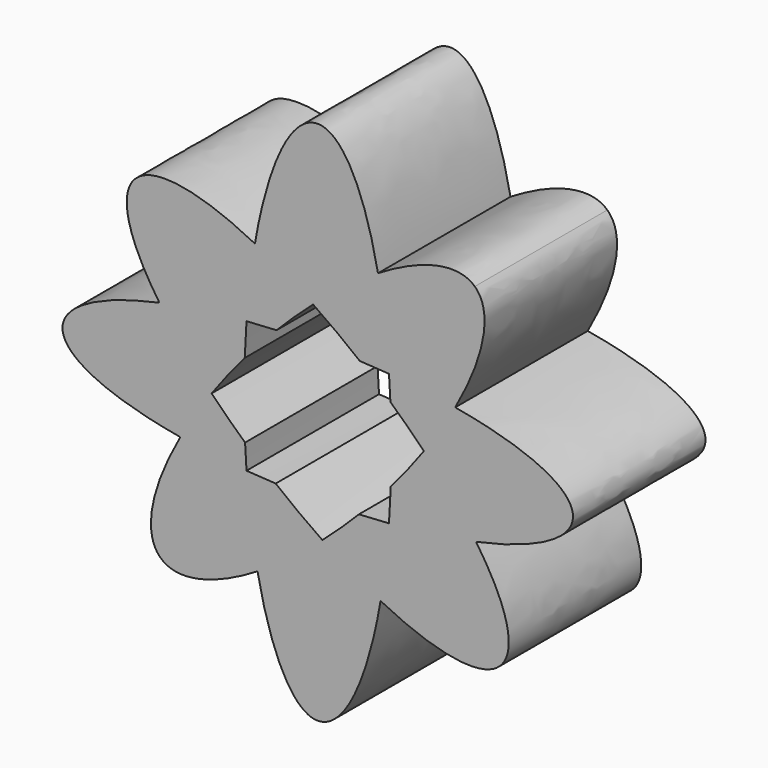
from build123d import *

# Parameters (mm, degrees)
F1_DEPTH = 25.4


with BuildPart() as f1:
    # F0 (on Front) → F1 (new body)
    with BuildSketch(Plane.XZ):
        with BuildLine():
            add(Edge.make_bspline(
                [(-9.6334397965, 20.9826078179), (-24.1749871063, 28.3822451496), (-28.2449897272, 23.4879380359)],
                knots=[5.3150586543, 5.3150586543, 5.3150586543, 6.2831853072, 6.2831853072, 6.2831853072], degree=2, weights=[1, 0.885111246, 1]))
            add(Edge.make_bspline(
                [(-28.2449897272, 23.4879380359), (-31.7999684313, 19.2129635012), (-24.2773097088, 8.2450815815)],
                knots=[0, 0, 0, 0.8610435374, 0.8610435374, 0.8610435374], degree=2, weights=[1, 0.9087481158, 1]))
            add(Edge.make_bspline(
                [(-10.9244512844, 10.093500542), (-18.2738244712, 9.5198655215), (-24.2773097088, 8.2450815815)],
                knots=[4.9952466524, 4.9952466524, 4.9952466524, 5.3814419574, 5.3814419574, 5.3814419574], degree=2, weights=[1, 0.9814145055, 1]))
            add(Edge.make_bspline(
                [(-9.6334397965, 20.9826078179), (-10.5051315613, 15.8799657732), (-10.9244512844, 10.093500542)],
                knots=[1.0230633531, 1.0230633531, 1.0230633531, 1.3175957323, 1.3175957323, 1.3175957323], degree=2, weights=[1, 0.989175918, 1]))
        make_face()
        with BuildLine():
            add(Edge.make_bspline(
                [(-10.9244512844, 10.093500542), (-18.2738244712, 9.5198655215), (-24.2773097088, 8.2450815815)],
                knots=[4.9952466524, 4.9952466524, 4.9952466524, 5.3814419574, 5.3814419574, 5.3814419574], degree=2, weights=[1, 0.9814145055, 1]))
            add(Edge.make_bspline(
                [(-24.2773097088, 8.2450815815), (-21.0599122764, 3.554182203), (-16.2778676613, -1.4007753111)],
                knots=[0.8610435374, 0.8610435374, 0.8610435374, 1.2489447615, 1.2489447615, 1.2489447615], degree=2, weights=[1, 0.9812504656, 1]))
            add(Edge.make_bspline(
                [(-11.1955196289, 5.0427610987), (-13.9309966677, 1.8467505057), (-16.2778676613, -1.4007753111)],
                knots=[1.679891763, 1.679891763, 1.679891763, 1.9166436443, 1.9166436443, 1.9166436443], degree=2, weights=[1, 0.9930017462, 1]))
            add(Edge.make_bspline(
                [(-10.9244512844, 10.093500542), (-11.1052111409, 7.5990778678), (-11.1955196289, 5.0427610987)],
                knots=[1.3175957323, 1.3175957323, 1.3175957323, 1.4453143988, 1.4453143988, 1.4453143988], degree=2, weights=[1, 0.9979616856, 1]))
        make_face()
        with BuildLine():
            add(Edge.make_bspline(
                [(-24.2773097088, 8.2450815815), (-21.0599122764, 3.554182203), (-16.2778676613, -1.4007753111)],
                knots=[0.8610435374, 0.8610435374, 0.8610435374, 1.2489447615, 1.2489447615, 1.2489447615], degree=2, weights=[1, 0.9812504656, 1]))
            add(Edge.make_bspline(
                [(-24.2773097088, 8.2450815815), (-39.1415841877, 5.0887919203), (-39.1415841877, 0)],
                knots=[5.3814419574, 5.3814419574, 5.3814419574, 6.2831853072, 6.2831853072, 6.2831853072], degree=2, weights=[1, 0.9000676118, 1]))
            add(Edge.make_bspline(
                [(-39.1415841877, 0), (-39.1415841877, -5.7569625435), (-21.0774784797, -8.857047955)],
                knots=[0, 0, 0, 1.0021484051, 1.0021484051, 1.0021484051], degree=2, weights=[1, 0.8770670555, 1]))
            add(Edge.make_bspline(
                [(-16.2778676613, -1.4007753111), (-19.0449410134, -5.2297638547), (-21.0774784797, -8.857047955)],
                knots=[1.9166436443, 1.9166436443, 1.9166436443, 2.1952798257, 2.1952798257, 2.1952798257], degree=2, weights=[1, 0.9903109217, 1]))
        make_face()
        with BuildLine():
            add(Edge.make_bspline(
                [(0, 40.2928069234), (-6.3346503874, 40.2928069234), (-9.6334397965, 20.9826078179)],
                knots=[0, 0, 0, 1.0230633531, 1.0230633531, 1.0230633531], degree=2, weights=[1, 0.8719957546, 1]))
            add(Edge.make_bspline(
                [(-0.7156895988, 15.6745771205), (-5.3015148464, 18.7782568712), (-9.6334397965, 20.9826078179)],
                knots=[5.0043199829, 5.0043199829, 5.0043199829, 5.3150586543, 5.3150586543, 5.3150586543], degree=2, weights=[1, 0.9879544453, 1]))
            add(Edge.make_bspline(
                [(9.2405859063, 23.1259098387), (4.4354249084, 20.1875354382), (-0.7156895988, 15.6745771205)],
                knots=[0.8573022563, 0.8573022563, 0.8573022563, 1.2548784247, 1.2548784247, 1.2548784247], degree=2, weights=[1, 0.9803066286, 1]))
            add(Edge.make_bspline(
                [(9.2405859063, 23.1259098387), (5.8709662193, 40.2928069234), (0, 40.2928069234)],
                knots=[5.3237058825, 5.3237058825, 5.3237058825, 6.2831853072, 6.2831853072, 6.2831853072], degree=2, weights=[1, 0.8871150882, 1]))
        make_face()
        with BuildLine():
            add(Edge.make_bspline(
                [(-0.7156895988, 15.6745771205), (-5.3015148464, 18.7782568712), (-9.6334397965, 20.9826078179)],
                knots=[5.0043199829, 5.0043199829, 5.0043199829, 5.3150586543, 5.3150586543, 5.3150586543], degree=2, weights=[1, 0.9879544453, 1]))
            add(Edge.make_bspline(
                [(-9.6334397965, 20.9826078179), (-10.5051315613, 15.8799657732), (-10.9244512844, 10.093500542)],
                knots=[1.0230633531, 1.0230633531, 1.0230633531, 1.3175957323, 1.3175957323, 1.3175957323], degree=2, weights=[1, 0.989175918, 1]))
            add(Edge.make_bspline(
                [(-6.3122484149, 10.3736136544), (-8.649911175, 10.2710334865), (-10.9244512844, 10.093500542)],
                knots=[4.8743633692, 4.8743633692, 4.8743633692, 4.9952466524, 4.9952466524, 4.9952466524], degree=2, weights=[1, 0.99817396, 1]))
            add(Edge.make_bspline(
                [(-0.7156895988, 15.6745771205), (-3.5573674178, 13.184946278), (-6.3122484149, 10.3736136544)],
                knots=[1.2548784247, 1.2548784247, 1.2548784247, 1.476233539, 1.476233539, 1.476233539], degree=2, weights=[1, 0.9938814887, 1]))
        make_face()
        with BuildLine():
            add(Edge.make_bspline(
                [(-16.2778676613, -1.4007753111), (-13.8469877195, -3.9195529059), (-11.1427402225, -6.3609505957)],
                knots=[1.2489447615, 1.2489447615, 1.2489447615, 1.4479790573, 1.4479790573, 1.4479790573], degree=2, weights=[1, 0.9950522541, 1]))
            add(Edge.make_bspline(
                [(-16.2778676613, -1.4007753111), (-19.0449410134, -5.2297638547), (-21.0774784797, -8.857047955)],
                knots=[1.9166436443, 1.9166436443, 1.9166436443, 2.1952798257, 2.1952798257, 2.1952798257], degree=2, weights=[1, 0.9903109217, 1]))
            add(Edge.make_bspline(
                [(-21.0774784797, -8.857047955), (-16.3321884544, -9.6714145568), (-10.9244512844, -10.093500542)],
                knots=[1.0021484051, 1.0021484051, 1.0021484051, 1.2879386547, 1.2879386547, 1.2879386547], degree=2, weights=[1, 0.9898078522, 1]))
            add(Edge.make_bspline(
                [(-11.1427402225, -6.3609505957), (-11.0583542324, -8.2456867845), (-10.9244512844, -10.093500542)],
                knots=[1.7293276756, 1.7293276756, 1.7293276756, 1.8239969212, 1.8239969212, 1.8239969212], degree=2, weights=[1, 0.9988799259, 1]))
        make_face()
        with BuildLine():
            add(Edge.make_bspline(
                [(9.2405859063, 23.1259098387), (4.4354249084, 20.1875354382), (-0.7156895988, 15.6745771205)],
                knots=[0.8573022563, 0.8573022563, 0.8573022563, 1.2548784247, 1.2548784247, 1.2548784247], degree=2, weights=[1, 0.9803066286, 1]))
            add(Edge.make_bspline(
                [(6.4476243744, 10.3676077129), (2.9099172017, 13.2207717958), (-0.7156895988, 15.6745771205)],
                knots=[4.7579047623, 4.7579047623, 4.7579047623, 5.0043199829, 5.0043199829, 5.0043199829], degree=2, weights=[1, 0.992419539, 1]))
            add(Edge.make_bspline(
                [(10.9244512844, 10.093500542), (8.716024728, 10.2658731758), (6.4476243744, 10.3676077129)],
                knots=[4.4295313083, 4.4295313083, 4.4295313083, 4.546909087, 4.546909087, 4.546909087], degree=2, weights=[1, 0.9982783014, 1]))
            add(Edge.make_bspline(
                [(10.9244512844, 10.093500542), (10.4128198041, 17.1538356722), (9.2405859063, 23.1259098387)],
                knots=[4.9655895748, 4.9655895748, 4.9655895748, 5.3237058825, 5.3237058825, 5.3237058825], degree=2, weights=[1, 0.9840118747, 1]))
        make_face()
        with BuildLine():
            add(Edge.make_bspline(
                [(-21.0774784797, -8.857047955), (-16.3321884544, -9.6714145568), (-10.9244512844, -10.093500542)],
                knots=[1.0021484051, 1.0021484051, 1.0021484051, 1.2879386547, 1.2879386547, 1.2879386547], degree=2, weights=[1, 0.9898078522, 1]))
            add(Edge.make_bspline(
                [(-21.0774784797, -8.857047955), (-39.4110199858, -41.5752461227), (-9.2405859063, -23.1259098387)],
                knots=[2.1952798257, 2.1952798257, 2.1952798257, 3.9988949099, 3.9988949099, 3.9988949099], degree=2, weights=[1, 0.6201930572, 1]))
            add(Edge.make_bspline(
                [(-10.9244512844, -10.093500542), (-10.4128198041, -17.1538356722), (-9.2405859063, -23.1259098387)],
                knots=[1.8239969212, 1.8239969212, 1.8239969212, 2.1821132289, 2.1821132289, 2.1821132289], degree=2, weights=[1, 0.9840118747, 1]))
        make_face()
        with BuildLine():
            add(Edge.make_bspline(
                [(24.0825692568, 26.1637814162), (20.1411706974, 29.791659293), (9.2405859063, 23.1259098387)],
                knots=[0, 0, 0, 0.8573022563, 0.8573022563, 0.8573022563], degree=2, weights=[1, 0.9095272279, 1]))
            add(Edge.make_bspline(
                [(10.9244512844, 10.093500542), (10.4128198041, 17.1538356722), (9.2405859063, 23.1259098387)],
                knots=[4.9655895748, 4.9655895748, 4.9655895748, 5.3237058825, 5.3237058825, 5.3237058825], degree=2, weights=[1, 0.9840118747, 1]))
            add(Edge.make_bspline(
                [(21.0774784797, 8.857047955), (16.3321884544, 9.6714145568), (10.9244512844, 10.093500542)],
                knots=[4.1437410587, 4.1437410587, 4.1437410587, 4.4295313083, 4.4295313083, 4.4295313083], degree=2, weights=[1, 0.9898078522, 1]))
            add(Edge.make_bspline(
                [(21.0774784797, 8.857047955), (28.4979272045, 22.0996455071), (24.0825692568, 26.1637814162)],
                knots=[5.3368724793, 5.3368724793, 5.3368724793, 6.2831853072, 6.2831853072, 6.2831853072], degree=2, weights=[1, 0.8901343527, 1]))
        make_face()
        with BuildLine():
            add(Edge.make_bspline(
                [(-6.4476243744, -10.3676077129), (-2.9099172017, -13.2207717958), (0.7156895988, -15.6745771205)],
                knots=[1.6163121087, 1.6163121087, 1.6163121087, 1.8627273293, 1.8627273293, 1.8627273293], degree=2, weights=[1, 0.992419539, 1]))
            add(Edge.make_bspline(
                [(-10.9244512844, -10.093500542), (-8.716024728, -10.2658731758), (-6.4476243744, -10.3676077129)],
                knots=[1.2879386547, 1.2879386547, 1.2879386547, 1.4053164334, 1.4053164334, 1.4053164334], degree=2, weights=[1, 0.9982783014, 1]))
            add(Edge.make_bspline(
                [(-10.9244512844, -10.093500542), (-10.4128198041, -17.1538356722), (-9.2405859063, -23.1259098387)],
                knots=[1.8239969212, 1.8239969212, 1.8239969212, 2.1821132289, 2.1821132289, 2.1821132289], degree=2, weights=[1, 0.9840118747, 1]))
            add(Edge.make_bspline(
                [(-9.2405859063, -23.1259098387), (-4.4354249084, -20.1875354382), (0.7156895988, -15.6745771205)],
                knots=[3.9988949099, 3.9988949099, 3.9988949099, 4.3964710783, 4.3964710783, 4.3964710783], degree=2, weights=[1, 0.9803066286, 1]))
        make_face()
        with BuildLine():
            add(Edge.make_bspline(
                [(-9.2405859063, -23.1259098387), (-4.4354249084, -20.1875354382), (0.7156895988, -15.6745771205)],
                knots=[3.9988949099, 3.9988949099, 3.9988949099, 4.3964710783, 4.3964710783, 4.3964710783], degree=2, weights=[1, 0.9803066286, 1]))
            add(Edge.make_bspline(
                [(-9.2405859063, -23.1259098387), (0.6549861938, -73.5399872764), (9.6334397965, -20.9826078179)],
                knots=[2.1821132289, 2.1821132289, 2.1821132289, 4.1646560067, 4.1646560067, 4.1646560067], degree=2, weights=[1, 0.5476265033, 1]))
            add(Edge.make_bspline(
                [(0.7156895988, -15.6745771205), (5.3015148464, -18.7782568712), (9.6334397965, -20.9826078179)],
                knots=[1.8627273293, 1.8627273293, 1.8627273293, 2.1734660007, 2.1734660007, 2.1734660007], degree=2, weights=[1, 0.9879544453, 1]))
        make_face()
        with BuildLine():
            add(Edge.make_bspline(
                [(11.1427402225, 6.3609505957), (11.0583542324, 8.2456867845), (10.9244512844, 10.093500542)],
                knots=[4.8709203292, 4.8709203292, 4.8709203292, 4.9655895748, 4.9655895748, 4.9655895748], degree=2, weights=[1, 0.9988799259, 1]))
            add(Edge.make_bspline(
                [(16.2778676613, 1.4007753111), (13.8469877195, 3.9195529059), (11.1427402225, 6.3609505957)],
                knots=[4.3905374151, 4.3905374151, 4.3905374151, 4.5895717109, 4.5895717109, 4.5895717109], degree=2, weights=[1, 0.9950522541, 1]))
            add(Edge.make_bspline(
                [(16.2778676613, 1.4007753111), (19.0449410134, 5.2297638547), (21.0774784797, 8.857047955)],
                knots=[5.0582362979, 5.0582362979, 5.0582362979, 5.3368724793, 5.3368724793, 5.3368724793], degree=2, weights=[1, 0.9903109217, 1]))
            add(Edge.make_bspline(
                [(21.0774784797, 8.857047955), (16.3321884544, 9.6714145568), (10.9244512844, 10.093500542)],
                knots=[4.1437410587, 4.1437410587, 4.1437410587, 4.4295313083, 4.4295313083, 4.4295313083], degree=2, weights=[1, 0.9898078522, 1]))
        make_face()
        with BuildLine():
            add(Edge.make_bspline(
                [(0.7156895988, -15.6745771205), (3.5573674178, -13.184946278), (6.3122484149, -10.3736136544)],
                knots=[4.3964710783, 4.3964710783, 4.3964710783, 4.6178261925, 4.6178261925, 4.6178261925], degree=2, weights=[1, 0.9938814887, 1]))
            add(Edge.make_bspline(
                [(0.7156895988, -15.6745771205), (5.3015148464, -18.7782568712), (9.6334397965, -20.9826078179)],
                knots=[1.8627273293, 1.8627273293, 1.8627273293, 2.1734660007, 2.1734660007, 2.1734660007], degree=2, weights=[1, 0.9879544453, 1]))
            add(Edge.make_bspline(
                [(9.6334397965, -20.9826078179), (10.5051315613, -15.8799657732), (10.9244512844, -10.093500542)],
                knots=[4.1646560067, 4.1646560067, 4.1646560067, 4.4591883859, 4.4591883859, 4.4591883859], degree=2, weights=[1, 0.989175918, 1]))
            add(Edge.make_bspline(
                [(6.3122484149, -10.3736136544), (8.649911175, -10.2710334865), (10.9244512844, -10.093500542)],
                knots=[1.7327707156, 1.7327707156, 1.7327707156, 1.8536539989, 1.8536539989, 1.8536539989], degree=2, weights=[1, 0.99817396, 1]))
        make_face()
        with BuildLine():
            add(Edge.make_bspline(
                [(9.6334397965, -20.9826078179), (10.5051315613, -15.8799657732), (10.9244512844, -10.093500542)],
                knots=[4.1646560067, 4.1646560067, 4.1646560067, 4.4591883859, 4.4591883859, 4.4591883859], degree=2, weights=[1, 0.989175918, 1]))
            add(Edge.make_bspline(
                [(9.6334397965, -20.9826078179), (45.5488880813, -39.2586059804), (24.2773097088, -8.2450815815)],
                knots=[2.1734660007, 2.1734660007, 2.1734660007, 4.002636191, 4.002636191, 4.002636191], degree=2, weights=[1, 0.610119361, 1]))
            add(Edge.make_bspline(
                [(10.9244512844, -10.093500542), (18.2738244712, -9.5198655215), (24.2773097088, -8.2450815815)],
                knots=[1.8536539989, 1.8536539989, 1.8536539989, 2.2398493038, 2.2398493038, 2.2398493038], degree=2, weights=[1, 0.9814145055, 1]))
        make_face()
        with BuildLine():
            add(Edge.make_bspline(
                [(16.2778676613, 1.4007753111), (19.0449410134, 5.2297638547), (21.0774784797, 8.857047955)],
                knots=[5.0582362979, 5.0582362979, 5.0582362979, 5.3368724793, 5.3368724793, 5.3368724793], degree=2, weights=[1, 0.9903109217, 1]))
            add(Edge.make_bspline(
                [(24.2773097088, -8.2450815815), (21.0599122764, -3.554182203), (16.2778676613, 1.4007753111)],
                knots=[4.002636191, 4.002636191, 4.002636191, 4.3905374151, 4.3905374151, 4.3905374151], degree=2, weights=[1, 0.9812504656, 1]))
            add(Edge.make_bspline(
                [(24.2773097088, -8.2450815815), (67.3889424296, 0.9092704069), (21.0774784797, 8.857047955)],
                knots=[2.2398493038, 2.2398493038, 2.2398493038, 4.1437410587, 4.1437410587, 4.1437410587], degree=2, weights=[1, 0.5800991823, 1]))
        make_face()
        with BuildLine():
            add(Edge.make_bspline(
                [(24.2773097088, -8.2450815815), (21.0599122764, -3.554182203), (16.2778676613, 1.4007753111)],
                knots=[4.002636191, 4.002636191, 4.002636191, 4.3905374151, 4.3905374151, 4.3905374151], degree=2, weights=[1, 0.9812504656, 1]))
            add(Edge.make_bspline(
                [(11.1955196289, -5.0427610987), (13.9309966677, -1.8467505057), (16.2778676613, 1.4007753111)],
                knots=[4.8214844166, 4.8214844166, 4.8214844166, 5.0582362979, 5.0582362979, 5.0582362979], degree=2, weights=[1, 0.9930017462, 1]))
            add(Edge.make_bspline(
                [(10.9244512844, -10.093500542), (11.1052111409, -7.5990778678), (11.1955196289, -5.0427610987)],
                knots=[4.4591883859, 4.4591883859, 4.4591883859, 4.5869070524, 4.5869070524, 4.5869070524], degree=2, weights=[1, 0.9979616856, 1]))
            add(Edge.make_bspline(
                [(10.9244512844, -10.093500542), (18.2738244712, -9.5198655215), (24.2773097088, -8.2450815815)],
                knots=[1.8536539989, 1.8536539989, 1.8536539989, 2.2398493038, 2.2398493038, 2.2398493038], degree=2, weights=[1, 0.9814145055, 1]))
        make_face()
    extrude(amount=F1_DEPTH)


solid = f1.part
